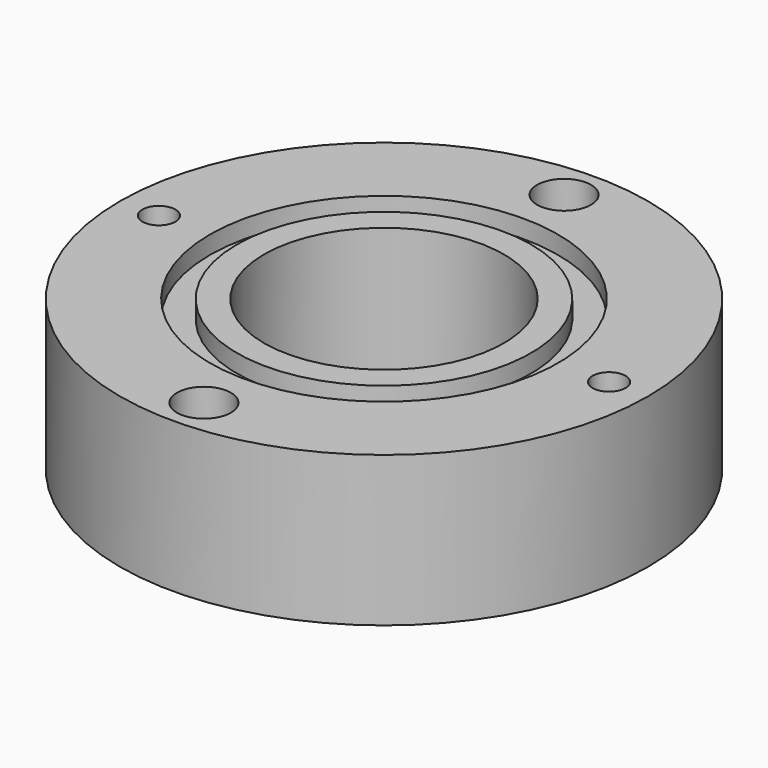
from build123d import *

# Parameters (mm, degrees)
F3_D     = 5.8
F3_DEPTH = 40
F3_TIP   = 1.7424957952
F5_D     = 5.5
F5_DEPTH = 14.4
F5_TIP   = 1.6523667023
F6_R     = 4.5
F6_R_2   = 2.9
F7_DEPTH = 8


with BuildPart() as f1:
    # F0 (on Front) → F1 (revolve)
    with BuildSketch(Plane.XZ):
        Polygon((-20, 0), (-20, 25), (-24.5, 25), (-24.5, 22), (-29, 22), (-29, 25), (-44, 25), (-44, 17), (-44, 8), (-44, 0), align=None)
    revolve(axis=Axis((0, 0, 12.5), (0, 0, -1)))

    # F3
    with Locations(Plane.XY.offset(25)):
        with Locations((0, 37.5), (0, -37.5)):
            Hole(F3_D / 2, depth=F3_DEPTH)
            with Locations((0, 0, -(F3_DEPTH + F3_TIP / 2))):  # 118° drill point
                Cone(0, F3_D / 2, F3_TIP, mode=Mode.SUBTRACT)

    # F5
    with Locations(Plane.XY.offset(25)):
        with Locations((-37.5, 0), (37.5, 0)):
            Hole(F5_D / 2, depth=F5_DEPTH)
            with Locations((0, 0, -(F5_DEPTH + F5_TIP / 2))):  # 118° drill point
                Cone(0, F5_D / 2, F5_TIP, mode=Mode.SUBTRACT)

    # F6 (on face) → F7 (cut)
    with BuildSketch(Plane.XY.offset(25)):
        with Locations((0, 37.5)):
            Circle(F6_R)
        with Locations((0, 37.5)):
            Circle(F6_R_2, mode=Mode.SUBTRACT)
        with Locations((0, -37.5)):
            Circle(F6_R)
        with Locations((0, -37.5)):
            Circle(F6_R_2, mode=Mode.SUBTRACT)
    extrude(amount=-F7_DEPTH, mode=Mode.SUBTRACT)


solid = f1.part
